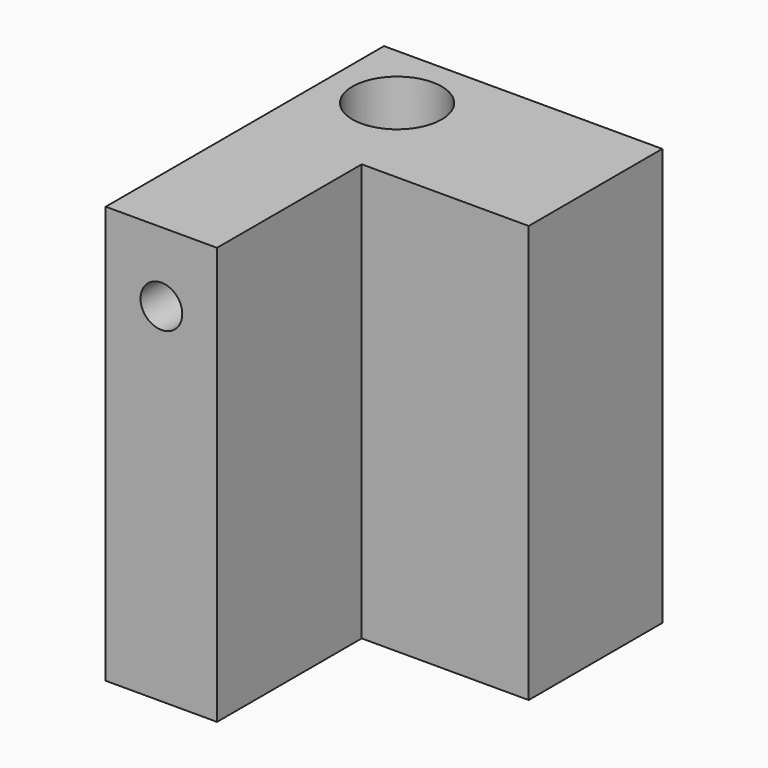
from build123d import *

# Parameters (mm, degrees)
F0_W     = 8
F0_H     = 30
F0_R     = 1.5
F1_DEPTH = 25
F0_W_2   = 12
F2_DEPTH = 12
F3_R     = 3.208218
F4_DEPTH = 333


with BuildPart() as f1:
    # F0 (on Front) → F1 (new body)
    with BuildSketch(Plane.XZ):
        with Locations((-22.408133, -12.958233)):
            Rectangle(F0_W, F0_H)
        with Locations((-22.408133, -2.958233)):
            Circle(F0_R, mode=Mode.SUBTRACT)
    extrude(amount=F1_DEPTH)

    # F0 (on Front) → F2 (join)
    with BuildSketch(Plane.XZ):
        with Locations((-12.408133, -12.958233)):
            Rectangle(F0_W_2, F0_H)
    extrude(amount=F2_DEPTH)

    # F3 (on face) → F4 (cut)
    with BuildSketch(Plane.XY.offset(2.041767)):
        with Locations((-21.514958, -4.940173)):
            Circle(F3_R)
    extrude(amount=-F4_DEPTH, mode=Mode.SUBTRACT)


solid = f1.part
